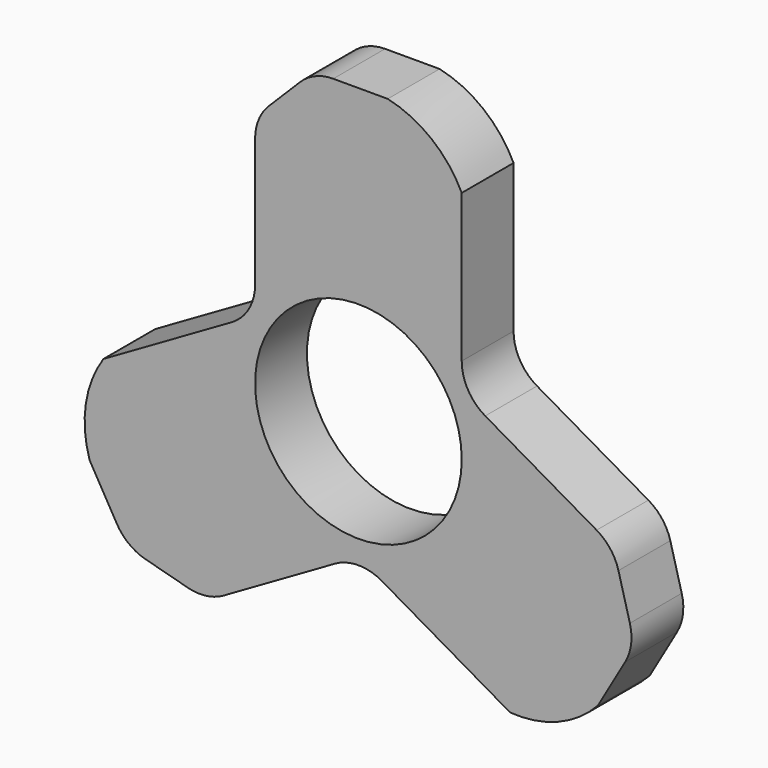
from build123d import *

# Parameters (mm, degrees)
F0_R     = 11.176
F1_DEPTH = 7.0104
F2_R     = 5.08


with BuildPart() as f1:
    # F0 (on Front) → F1 (new body)
    with BuildSketch(Plane.XZ):
        with BuildLine():
            Line((-11.176, 25.4), (-11.176, 6.452467))
            Line((-11.176, 6.452467), (-27.585045, -3.0213))
            ThreePointArc((-27.585045, -3.0213), (-29.486327, -7.90247), (-29.083807, -13.125369))
            Line((-29.083807, -13.125369), (-25.083307, -20.054439))
            Line((-25.083307, -20.054439), (-16.409045, -22.3787))
            Line((-16.409045, -22.3787), (0, -12.904933))
            Line((0, -12.904933), (16.409045, -22.3787))
            ThreePointArc((16.409045, -22.3787), (21.586904, -21.584673), (25.908807, -18.624631))
            Line((25.908807, -18.624631), (29.909307, -11.695561))
            Line((29.909307, -11.695561), (27.585045, -3.0213))
            Line((27.585045, -3.0213), (11.176, 6.452467))
            Line((11.176, 6.452467), (11.176, 25.4))
            ThreePointArc((11.176, 25.4), (7.899423, 29.487143), (3.175, 31.75))
            Line((3.175, 31.75), (-4.826, 31.75))
            Line((-4.826, 31.75), (-11.176, 25.4))
        make_face()
        Circle(F0_R, mode=Mode.SUBTRACT)
    extrude(amount=F1_DEPTH)

    # F2
    f2_edges = [f1.edges().sort_by_distance(p)[0] for p in [
        (-11.176, -3.5052, 6.452467),
        (-11.176, -3.5052, 25.4),
        (11.176, -3.5052, 6.452467),
        (29.909307, -3.5052, -11.695561),
        (27.585045, -3.5052, -3.0213),
        (0, -3.5052, -12.904933),
        (-16.409045, -3.5052, -22.3787),
        (-25.083307, -3.5052, -20.054439),
        (-4.826, -3.5052, 31.75),
    ]]
    fillet(f2_edges, radius=F2_R)


solid = f1.part
